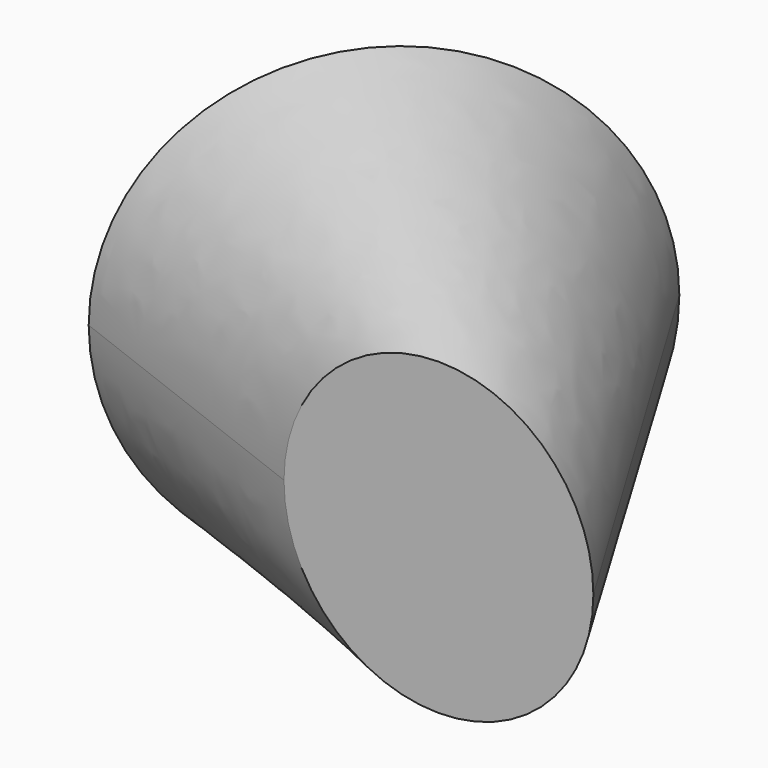
from build123d import *

# Parameters (mm, degrees)
F0_R = 10
F3_R = 15


with BuildPart() as f4:
    # F0 (on Front) → F4 section 0
    with BuildSketch(Plane.XZ):
        Circle(F0_R)
    # F3 (on offset) → F4 section 1
    with BuildSketch(Plane(origin=(-17.6776695297, 17.6776695297, 0), x_dir=(-0.7071067812, -0.7071067812, 0), z_dir=(-0.7071067812, 0.7071067812, 0))):
        Circle(F3_R)
    loft()


solid = f4.part
